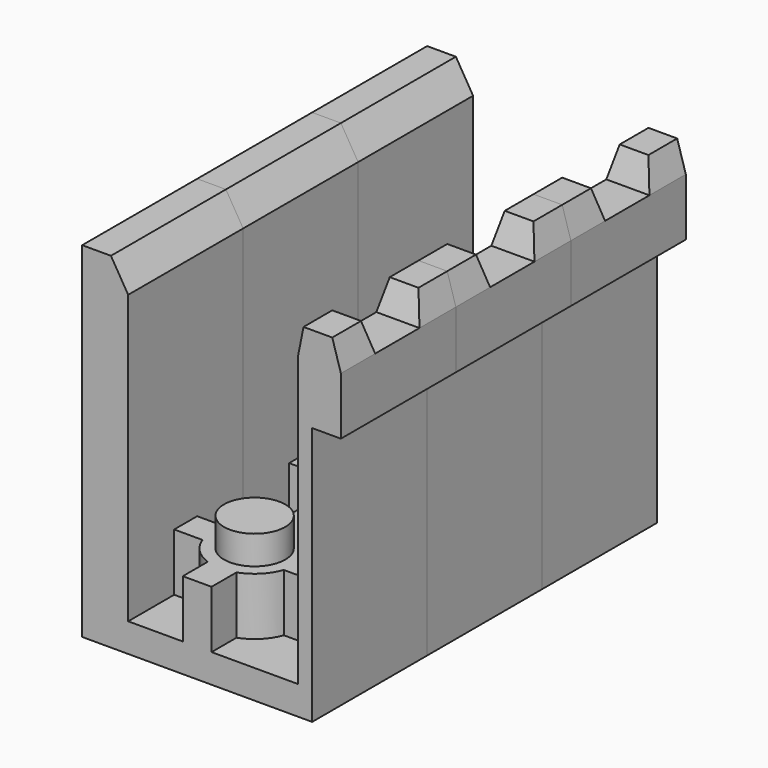
from build123d import *

# Parameters (mm, degrees)
PAD_DEPTH        = 2.5
POCKET_DEPTH     = 2
SKETCH003_W      = 3
SKETCH003_H      = 3
POCKET001_DEPTH  = 0.5
SKETCH004_W      = 5
SKETCH004_H      = 3
POCKET002_DEPTH  = 0.5
SKETCH005_W      = 2
SKETCH005_H      = 1
POCKET003_DEPTH  = 4
PAD002_DEPTH     = 2
SKETCH007_R      = 1.064972
PAD003_DEPTH     = 1
ARRAY001_Y_COUNT = 3
ARRAY001_Y_PITCH = 5


with BuildPart() as array001:
    # Sketch → Pad (new body, symmetric)
    with BuildSketch(Plane.XZ):
        Polygon((-4, 0), (4, 0), (4, 9), (5, 9), (5, 11), (4.7, 12), (3.7, 12), (3.5, 11), (3.5, 1), (-2.4, 1), (-2.4, 11), (-3, 12), (-4, 12), align=None)
    extrude(amount=PAD_DEPTH, both=True)

    # Sketch001 (on Face4 of Pad) → Pocket (cut)
    with BuildSketch(Plane(origin=(5, 0, 0), x_dir=(0, 0, 1), z_dir=(1, 0, 0))):
        Polygon((12, 1.25), (11, 1.010227), (11, -0.917234), (12, -1.25), align=None)
    extrude(amount=-POCKET_DEPTH, mode=Mode.SUBTRACT)

    # Sketch003 (on Face2 of Pocket) → Pocket001 (cut)
    with BuildSketch(Plane(origin=(-4, 0, 0), x_dir=(0, 0, -1), z_dir=(-1, 0, 0))):
        with Locations((-1.5, 0)):
            Rectangle(SKETCH003_W, SKETCH003_H)
    extrude(amount=-POCKET001_DEPTH, mode=Mode.SUBTRACT)

    # Sketch004 (on Face1 of Pocket001) → Pocket002 (cut)
    with BuildSketch(Plane(origin=(0, 0, 0), x_dir=(1, 0, 0), z_dir=(0, 0, -1))):
        with Locations((-1, 0)):
            Rectangle(SKETCH004_W, SKETCH004_H)
    extrude(amount=-POCKET002_DEPTH, mode=Mode.SUBTRACT)

    # Sketch005 (on Face25 of Pocket002) → Pocket003 (cut)
    with BuildSketch(Plane(origin=(-3.5, 0, 0), x_dir=(0, 0, -1), z_dir=(-1, 0, 0))):
        with Locations((-1, 0)):
            Rectangle(SKETCH005_W, SKETCH005_H)
    extrude(amount=-POCKET003_DEPTH, mode=Mode.SUBTRACT)

    # Sketch006 (on Face17 of Pocket003) → Pad002 (new body)
    with BuildSketch(Plane(origin=(0, 0, 1), x_dir=(-1, 0, 0), z_dir=(0, 0, 1))):
        with BuildLine():
            Line((-3.5, 0.5), (-1.414214, 0.5))
            ThreePointArc((-0.5, 1.414214), (-1.06066, 1.06066), (-1.414214, 0.5))
            Line((-0.5, 1.414214), (-0.5, 2.5))
            Line((-0.5, 2.5), (0.5, 2.5))
            Line((0.5, 2.5), (0.5, 1.414214))
            ThreePointArc((1.414214, 0.5), (1.06066, 1.06066), (0.5, 1.414214))
            Line((1.414214, 0.5), (2.4, 0.5))
            Line((2.4, 0.5), (2.4, -0.5))
            Line((2.4, -0.5), (1.414214, -0.5))
            ThreePointArc((0.5, -1.414214), (1.06066, -1.06066), (1.414214, -0.5))
            Line((0.5, -1.414214), (0.5, -2.5))
            Line((0.5, -2.5), (-0.5, -2.5))
            Line((-0.5, -2.5), (-0.5, -1.414214))
            ThreePointArc((-1.414214, -0.5), (-1.06066, -1.06066), (-0.5, -1.414214))
            Line((-1.414214, -0.5), (-3.5, -0.5))
            Line((-3.5, -0.5), (-3.5, 0.5))
        make_face()
    extrude(amount=PAD002_DEPTH)

    # Sketch007 (on Face35 of Pad002) → Pad003 (new body)
    with BuildSketch(Plane(origin=(0, 0, 3), x_dir=(-1, 0, 0), z_dir=(0, 0, 1))):
        Circle(SKETCH007_R)
    extrude(amount=PAD003_DEPTH)


with BuildPart() as array001_copy1:
    # Array001 Y: instance of Array001
    add(array001.part.moved(Location(Vector(0, 1, 0) * (1 * ARRAY001_Y_PITCH))))


with BuildPart() as array001_copy2:
    # Array001 Y: instance of Array001
    add(array001.part.moved(Location(Vector(0, 1, 0) * (2 * ARRAY001_Y_PITCH))))


solid = Compound([array001.part, array001_copy1.part, array001_copy2.part])
